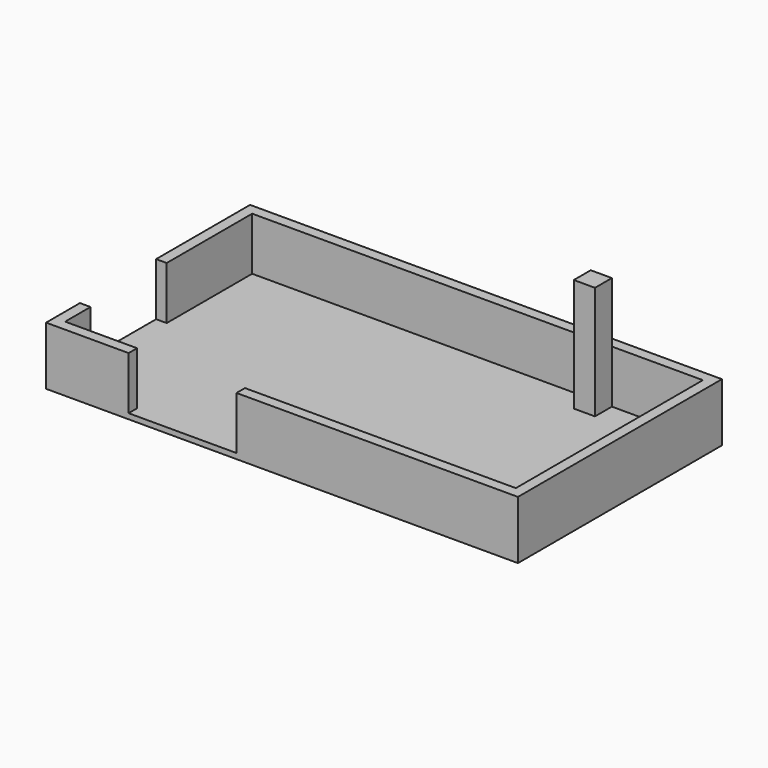
from build123d import *

# Parameters (mm, degrees)
F1_DEPTH = 500
F2_DEPTH = 51
F3_W     = 900
F3_H     = 500
F4_DEPTH = 190
F5_W     = 200
F5_H     = 200
F6_DEPTH = 570


with BuildPart() as f1:
    # F0 (on Top) → F1 (new body)
    with BuildSketch(Plane.XY):
        Polygon((2230, 1205), (-2230, 1205), (-2230, -1205), (-1450, -1205), (-1450, -1105), (-2130, -1105), (-2130, 1105), (1070, 1105), (1070, 905), (1270, 905), (1270, 1105), (2130, 1105), (2130, -1105), (-430, -1105), (-430, -1205), (2230, -1205), align=None)
    extrude(amount=F1_DEPTH)

    # F0 (on Top) → F2 (join)
    with BuildSketch(Plane.XY):
        Polygon((2230, 1205), (-2230, 1205), (-2230, -1205), (-1450, -1205), (-1450, -1105), (-2130, -1105), (-2130, 1105), (1070, 1105), (1070, 905), (1270, 905), (1270, 1105), (2130, 1105), (2130, -1105), (-430, -1105), (-430, -1205), (2230, -1205), align=None)
        Polygon((-1450, -1105), (-1450, -1205), (-430, -1205), (-430, -1105), (2130, -1105), (2130, 1105), (1270, 1105), (1270, 905), (1070, 905), (1070, 1105), (-2130, 1105), (-2130, -1105), align=None)
    extrude(amount=-F2_DEPTH)

    # F3 (on face) → F4 (cut)
    with BuildSketch(Plane.YZ.offset(-2130)):
        with Locations((-355, 250)):
            Rectangle(F3_W, F3_H)
    extrude(amount=-F4_DEPTH, mode=Mode.SUBTRACT)

    # F5 (on face) → F6 (join)
    with BuildSketch(Plane.XY.offset(500)):
        with Locations((1170, 1005)):
            Rectangle(F5_W, F5_H)
    extrude(amount=F6_DEPTH)


solid = f1.part
